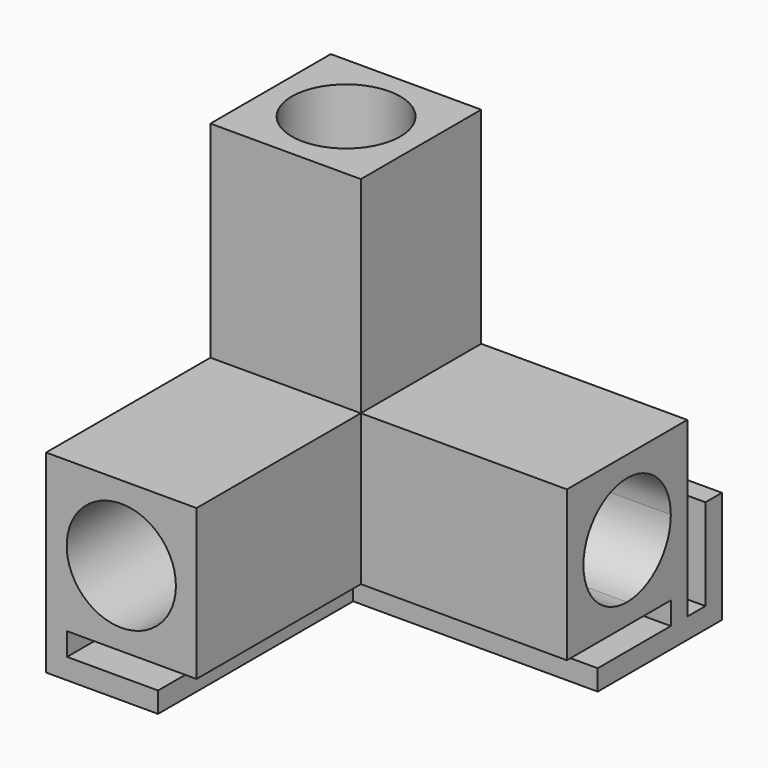
from build123d import *

# Parameters (mm, degrees)
F0_W      = 27
F0_H      = 15.9
F0_W_2    = 15.9
F0_H_2    = 27
F0_W_3    = 3
F0_H_3    = 3
F1_DEPTH  = 21.9
F2_DEPTH  = 51.8
F3_R      = 7.95
F6_DEPTH  = 30
F7_DEPTH  = 30
F4_R      = 7.9
F8_DEPTH  = 30
F12_DEPTH = 58.2
F13_DEPTH = 58.2
F14_DEPTH = 30


with BuildPart() as f1:
    # F0 (on Front) → F1 (new body)
    with BuildSketch(Plane.XZ):
        with BuildLine():
            Line((-34.3576915575, 15.9), (-42.3076915575, 15.9))
            Line((-42.3076915575, 15.9), (-42.3076915575, 7.9499999931))
            ThreePointArc((-42.3076915575, 7.9499999931), (-39.9791904704, 13.571498908), (-34.3576915575, 15.9))
        make_face()
        with BuildLine():
            ThreePointArc((-34.3576915575, 15.9), (-39.9791904704, 13.571498908), (-42.3076915575, 7.9499999931))
            ThreePointArc((-42.3076915575, 7.9499999931), (-39.9791904655, 2.3285010871), (-34.3576915575, 0))
            ThreePointArc((-34.3576915575, 0), (-28.7361926471, 2.3285010896), (-26.4076915575, 7.95))
            ThreePointArc((-26.4076915575, 7.95), (-28.7361926471, 13.5714989104), (-34.3576915575, 15.9))
        make_face()
        Polygon((-42.3076915575, 18.9), (-42.3076915575, 45.9), (-26.4076915575, 45.9), (-26.4076915575, 18.9), (-23.4076915575, 18.9), (-23.4076915575, 48.9), (-45.3076915575, 48.9), (-45.3076915575, 18.9), align=None)
        with Locations((-9.9076915575, 7.95)):
            Rectangle(F0_W, F0_H)
        with Locations((-34.3576915575, 32.4)):
            Rectangle(F0_W_2, F0_H_2)
        with BuildLine():
            ThreePointArc((-34.3576915575, 0), (-39.9791904655, 2.3285010871), (-42.3076915575, 7.9499999931))
            Line((-42.3076915575, 7.9499999931), (-42.3076915575, 0))
            Line((-42.3076915575, 0), (-34.3576915575, 0))
        make_face()
        with BuildLine():
            Line((-26.4076915575, 0), (-26.4076915575, 7.95))
            ThreePointArc((-26.4076915575, 7.95), (-28.7361926471, 2.3285010896), (-34.3576915575, 0))
            Line((-34.3576915575, 0), (-26.4076915575, 0))
        make_face()
        with BuildLine():
            Line((-26.4076915575, 7.95), (-26.4076915575, 15.9))
            Line((-26.4076915575, 15.9), (-34.3576915575, 15.9))
            ThreePointArc((-34.3576915575, 15.9), (-28.7361926471, 13.5714989104), (-26.4076915575, 7.95))
        make_face()
        Polygon((6.5923084425, 18.9), (-23.4076915575, 18.9), (-23.4076915575, 15.9), (3.5923084425, 15.9), (3.5923084425, 0), (-23.4076915575, 0), (-23.4076915575, -3), (6.5923084425, -3), align=None)
        Polygon((-26.4076915575, 18.9), (-42.3076915575, 18.9), (-42.3076915575, 15.9), (-34.3576915575, 15.9), (-26.4076915575, 15.9), align=None)
        Polygon((-23.4076915575, 15.9), (-26.4076915575, 15.9), (-26.4076915575, 7.95), (-26.4076915575, 0), (-23.4076915575, 0), align=None)
        Polygon((-42.3076915575, 15.9), (-42.3076915575, 18.9), (-45.3076915575, 18.9), (-45.3076915575, -3), (-23.4076915575, -3), (-23.4076915575, 0), (-26.4076915575, 0), (-34.3576915575, 0), (-42.3076915575, 0), (-42.3076915575, 7.9499999931), align=None)
        with Locations((-24.9076915575, 17.4)):
            Rectangle(F0_W_3, F0_H_3)
    extrude(amount=F1_DEPTH)

    # F0 (on Front) → F2 (join)
    with BuildSketch(Plane.XZ):
        Polygon((-42.3076915575, 15.9), (-42.3076915575, 18.9), (-45.3076915575, 18.9), (-45.3076915575, -3), (-23.4076915575, -3), (-23.4076915575, 0), (-26.4076915575, 0), (-34.3576915575, 0), (-42.3076915575, 0), (-42.3076915575, 7.9499999931), align=None)
        with BuildLine():
            ThreePointArc((-34.3576915575, 15.9), (-39.9791904704, 13.571498908), (-42.3076915575, 7.9499999931))
            ThreePointArc((-42.3076915575, 7.9499999931), (-39.9791904655, 2.3285010871), (-34.3576915575, 0))
            ThreePointArc((-34.3576915575, 0), (-28.7361926471, 2.3285010896), (-26.4076915575, 7.95))
            ThreePointArc((-26.4076915575, 7.95), (-28.7361926471, 13.5714989104), (-34.3576915575, 15.9))
        make_face()
        Polygon((-26.4076915575, 18.9), (-42.3076915575, 18.9), (-42.3076915575, 15.9), (-34.3576915575, 15.9), (-26.4076915575, 15.9), align=None)
        Polygon((-23.4076915575, 15.9), (-26.4076915575, 15.9), (-26.4076915575, 7.95), (-26.4076915575, 0), (-23.4076915575, 0), align=None)
        with Locations((-24.9076915575, 17.4)):
            Rectangle(F0_W_3, F0_H_3)
        with BuildLine():
            Line((-26.4076915575, 7.95), (-26.4076915575, 15.9))
            Line((-26.4076915575, 15.9), (-34.3576915575, 15.9))
            ThreePointArc((-34.3576915575, 15.9), (-28.7361926471, 13.5714989104), (-26.4076915575, 7.95))
        make_face()
        with BuildLine():
            Line((-34.3576915575, 15.9), (-42.3076915575, 15.9))
            Line((-42.3076915575, 15.9), (-42.3076915575, 7.9499999931))
            ThreePointArc((-42.3076915575, 7.9499999931), (-39.9791904704, 13.571498908), (-34.3576915575, 15.9))
        make_face()
        with BuildLine():
            ThreePointArc((-34.3576915575, 0), (-39.9791904655, 2.3285010871), (-42.3076915575, 7.9499999931))
            Line((-42.3076915575, 7.9499999931), (-42.3076915575, 0))
            Line((-42.3076915575, 0), (-34.3576915575, 0))
        make_face()
        with BuildLine():
            Line((-26.4076915575, 0), (-26.4076915575, 7.95))
            ThreePointArc((-26.4076915575, 7.95), (-28.7361926471, 2.3285010896), (-34.3576915575, 0))
            Line((-34.3576915575, 0), (-26.4076915575, 0))
        make_face()
    extrude(amount=F2_DEPTH)

    # F3 (on face) → F6 (cut)
    with BuildSketch(Plane.XZ.offset(51.8)):
        with Locations((-34.3576915575, 7.95)):
            Circle(F3_R)
    extrude(amount=-F6_DEPTH, mode=Mode.SUBTRACT)

    # F5 (on face) → F7 (cut)
    with BuildSketch(Plane.YZ.offset(6.5923084425)):
        with BuildLine():
            ThreePointArc((-3, 7.95), (-5.3285010896, 13.5714989104), (-10.95, 15.9))
            ThreePointArc((-10.95, 15.9), (-16.5714989104, 13.5714989104), (-18.9, 7.95))
            ThreePointArc((-18.9, 7.95), (-16.5714989104, 2.3285010896), (-10.95, 0))
            ThreePointArc((-10.95, 0), (-5.3285010896, 2.3285010896), (-3, 7.95))
        make_face()
    extrude(amount=-F7_DEPTH, mode=Mode.SUBTRACT)

    # F4 (on face) → F8 (cut)
    with BuildSketch(Plane.XY.offset(48.9)):
        with Locations((-34.3576915575, -10.9)):
            Circle(F4_R)
    extrude(amount=-F8_DEPTH, mode=Mode.SUBTRACT)

    # F10 (on face) → F12 (join)
    with BuildSketch(Plane.XZ.offset(51.8)):
        Polygon((-45.3076915575, -9.3), (-45.3076915575, -6.3), (-48.6076915575, -6.3), (-48.6076915575, 7), (-51.6076915575, 7), (-51.6076915575, -9.3), align=None)
        Polygon((-42.255833745, -3), (-45.3076915575, -3), (-45.3076915575, -6.3), (-45.3076915575, -9.3), (-29.0076915575, -9.3), (-29.0076915575, -6.3), (-42.255833745, -6.3), align=None)
    extrude(amount=-F12_DEPTH)

    # F11 (on face) → F13 (join, through all)
    with BuildSketch(Plane.YZ.offset(6.5923084425)):
        Polygon((0, -6.3), (0, -3), (-3, -3), (-3, -6.3), (-16.3, -6.3), (-16.3, -9.3), (0, -9.3), align=None)
        Polygon((3.3, -6.3), (0, -6.3), (0, -9.3), (6.3, -9.3), (6.3, 7), (3.3, 7), align=None)
    extrude(amount=-F13_DEPTH)

    # F10 (on face) → F14 (cut)
    with BuildSketch(Plane.XZ.offset(51.8)):
        Polygon((-45.3076915575, -9.3), (-45.3076915575, -6.3), (-48.6076915575, -6.3), (-48.6076915575, 7), (-51.6076915575, 7), (-51.6076915575, -9.3), align=None)
    extrude(amount=-F14_DEPTH, mode=Mode.SUBTRACT)


solid = f1.part
